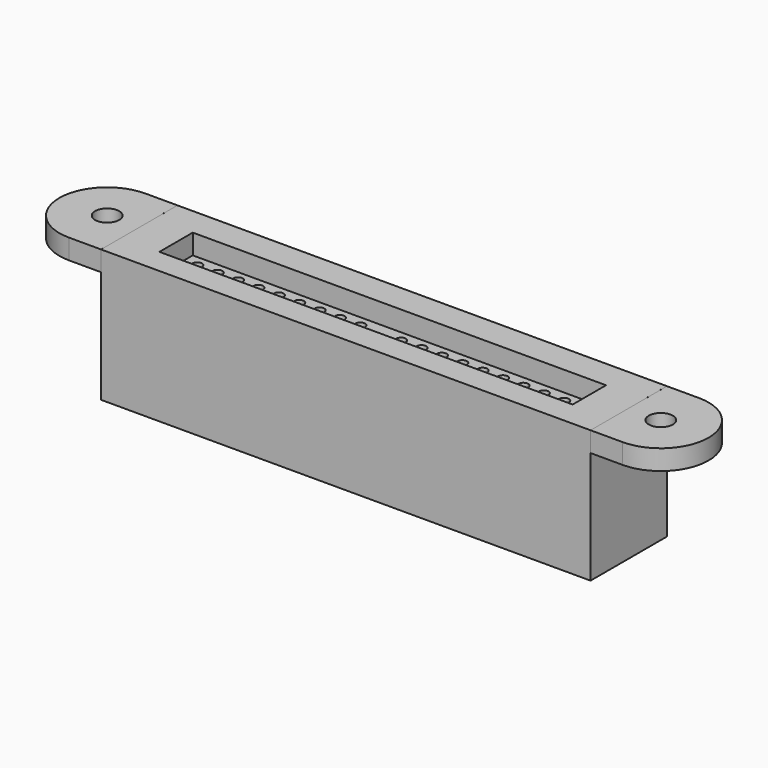
from build123d import *

# Parameters (mm, degrees)
BOX035_W                = 70
BOX035_H                = 15
BOX035_DEPTH            = 10
BOX034_W                = 0.5
BOX034_H                = 6.5
BOX034_DEPTH            = 3
BOX033_W                = 0.5
BOX033_H                = 6.5
BOX033_DEPTH            = 3
BOX032_W                = 3.8
BOX032_H                = 1.4
BOX032_DEPTH            = 2
BOX031_W                = 55
BOX031_H                = 6.5
BOX031_DEPTH            = 2
SKETCH009_R             = 1.5
PAD007_DEPTH            = 2.5
SKETCH011_R             = 1.5
PAD008_DEPTH            = 2.5
BODY008_PLACEMENT_ANGLE = 180
BOX030_W                = 1
BOX030_H                = 11.9
BOX030_DEPTH            = 18.5
BOX029_W                = 1
BOX029_H                = 11.9
BOX029_DEPTH            = 18.5
BOX028_W                = 59
BOX028_H                = 1
BOX028_DEPTH            = 18.5
CYLINDER002_R           = 1.2
CYLINDER002_DEPTH       = 50
CYLINDER003_R           = 1.2
CYLINDER003_DEPTH       = 50
CYLINDER004_R           = 1.2
CYLINDER004_DEPTH       = 50
CYLINDER005_R           = 1.2
CYLINDER005_DEPTH       = 50
CYLINDER006_R           = 1.2
CYLINDER006_DEPTH       = 50
CYLINDER007_R           = 1.2
CYLINDER007_DEPTH       = 50
CYLINDER008_R           = 1.2
CYLINDER008_DEPTH       = 50
CYLINDER009_R           = 1.2
CYLINDER009_DEPTH       = 50
CYLINDER010_R           = 1.2
CYLINDER010_DEPTH       = 50
CYLINDER001_R           = 1.2
CYLINDER001_DEPTH       = 50
CYLINDER_R              = 0.6
CYLINDER_DEPTH          = 50
ARRAY_X_COUNT           = 20
ARRAY_X_PITCH           = 2.54
ARRAY_Y_COUNT           = 2
ARRAY_Y_PITCH           = 2.54
SKETCH002_W             = 59
SKETCH002_H             = 10.9
PAD001_DEPTH            = 6
SKETCH003_W             = 59
SKETCH003_H             = 10.9
PAD002_DEPTH            = 9.5
SKETCH_W                = 51.5
SKETCH_H                = 5.2
POCKET_DEPTH            = 2.5
SKETCH001_W             = 59
SKETCH001_H             = 10.9
PAD_DEPTH               = 3


with BuildPart() as cube025:
    # Box035 → Box035 (new body)
    with BuildSketch(Plane(origin=(-35, -7, -11), x_dir=(1, 0, 0), z_dir=(0, 0, 1))):
        with Locations((35, 7.5)):
            Rectangle(BOX035_W, BOX035_H)
    extrude(amount=BOX035_DEPTH)


with BuildPart() as cube024:
    # Box034 → Box034 (new body)
    with BuildSketch(Plane(origin=(-28, -3.25, 0), x_dir=(1, 0, 0), z_dir=(0, 0, 1))):
        with Locations((0.25, 3.25)):
            Rectangle(BOX034_W, BOX034_H)
    extrude(amount=BOX034_DEPTH)


with BuildPart() as cube023:
    # Box033 → Box033 (new body)
    with BuildSketch(Plane(origin=(27.5, -3.25, 0), x_dir=(1, 0, 0), z_dir=(0, 0, 1))):
        with Locations((0.25, 3.25)):
            Rectangle(BOX033_W, BOX033_H)
    extrude(amount=BOX033_DEPTH)


with BuildPart() as cube022:
    # Box032 → Box032 (new body)
    with BuildSketch(Plane(origin=(-1.9, 3.25, 6), x_dir=(1, 0, 0), z_dir=(0, 0, 1))):
        with Locations((1.9, 0.7)):
            Rectangle(BOX032_W, BOX032_H)
    extrude(amount=BOX032_DEPTH)


with BuildPart() as cube021:
    # Box031 → Box031 (new body)
    with BuildSketch(Plane(origin=(-27.5, -3.25, 6), x_dir=(1, 0, 0), z_dir=(0, 0, 1))):
        with Locations((27.5, 3.25)):
            Rectangle(BOX031_W, BOX031_H)
    extrude(amount=BOX031_DEPTH)


with BuildPart() as obj1:
    # Sketch009 → Pad007 (new body)
    with BuildSketch(Plane.XY):
        with BuildLine():
            Line((-32.86076, 5.95), (-32.86076, -5.95))
            Line((-32.86076, -5.95), (-36.86076, -5.95))
            ThreePointArc((-36.86076, 5.95), (-42.81076, 0), (-36.86076, -5.95))
            Line((-32.86076, 5.95), (-36.86076, 5.95))
        make_face()
        with Locations((-36.86076, 0)):
            Circle(SKETCH009_R, mode=Mode.SUBTRACT)
    extrude(amount=PAD007_DEPTH)


with BuildPart() as obj1_1:
    # Body007 placement: moved
    add(obj1.part.moved(Location((2.36, 0.2, 13))))


with BuildPart() as obj2:
    # Sketch011 → Pad008 (new body)
    with BuildSketch(Plane.XY):
        with BuildLine():
            Line((-32.86076, 5.95), (-32.86076, -5.95))
            Line((-32.86076, -5.95), (-36.86076, -5.95))
            ThreePointArc((-36.86076, 5.95), (-42.81076, 0), (-36.86076, -5.95))
            Line((-32.86076, 5.95), (-36.86076, 5.95))
        make_face()
        with Locations((-36.86076, 0)):
            Circle(SKETCH011_R, mode=Mode.SUBTRACT)
    extrude(amount=PAD008_DEPTH)


with BuildPart() as obj2_1:
    # Body008 placement: moved
    add(obj2.part.moved(Location((-2.36, 0.2, 13))).rotate(Axis((-2.36, 0.2, 13), (0, 0, 1)), BODY008_PLACEMENT_ANGLE))


with BuildPart() as cube020:
    # Box030 → Box030 (new body)
    with BuildSketch(Plane(origin=(29.5, -5.75, -3), x_dir=(1, 0, 0), z_dir=(0, 0, 1))):
        with Locations((0.5, 5.95)):
            Rectangle(BOX030_W, BOX030_H)
    extrude(amount=BOX030_DEPTH)


with BuildPart() as cube019:
    # Box029 → Box029 (new body)
    with BuildSketch(Plane(origin=(-30.5, -5.75, -3), x_dir=(1, 0, 0), z_dir=(0, 0, 1))):
        with Locations((0.5, 5.95)):
            Rectangle(BOX029_W, BOX029_H)
    extrude(amount=BOX029_DEPTH)


with BuildPart() as cube018:
    # Box028 → Box028 (new body)
    with BuildSketch(Plane(origin=(-29.5, -5.75, -3), x_dir=(1, 0, 0), z_dir=(0, 0, 1))):
        with Locations((29.5, 0.5)):
            Rectangle(BOX028_W, BOX028_H)
    extrude(amount=BOX028_DEPTH)


with BuildPart() as cilindro_tapa001:
    # Cylinder002 → Cylinder002 (new body)
    with BuildSketch(Plane(origin=(-1.27, -1.27, 0), x_dir=(1, 0, 0), z_dir=(0, 0, 1))):
        Circle(CYLINDER002_R)
    extrude(amount=CYLINDER002_DEPTH)


with BuildPart() as cilindro_tapa002:
    # Cylinder003 → Cylinder003 (new body)
    with BuildSketch(Plane(origin=(-1.27, 1.27, 0), x_dir=(1, 0, 0), z_dir=(0, 0, 1))):
        Circle(CYLINDER003_R)
    extrude(amount=CYLINDER003_DEPTH)


with BuildPart() as cilindro_tapa003:
    # Cylinder004 → Cylinder004 (new body)
    with BuildSketch(Plane(origin=(1.27, -1.27, 0), x_dir=(1, 0, 0), z_dir=(0, 0, 1))):
        Circle(CYLINDER004_R)
    extrude(amount=CYLINDER004_DEPTH)


with BuildPart() as cilindro_tapa004:
    # Cylinder005 → Cylinder005 (new body)
    with BuildSketch(Plane(origin=(3.81, -1.27, 0), x_dir=(1, 0, 0), z_dir=(0, 0, 1))):
        Circle(CYLINDER005_R)
    extrude(amount=CYLINDER005_DEPTH)


with BuildPart() as cilindro_tapa005:
    # Cylinder006 → Cylinder006 (new body)
    with BuildSketch(Plane(origin=(6.35, -1.27, 0), x_dir=(1, 0, 0), z_dir=(0, 0, 1))):
        Circle(CYLINDER006_R)
    extrude(amount=CYLINDER006_DEPTH)


with BuildPart() as cilindro_tapa006:
    # Cylinder007 → Cylinder007 (new body)
    with BuildSketch(Plane(origin=(11.43, -1.27, 0), x_dir=(1, 0, 0), z_dir=(0, 0, 1))):
        Circle(CYLINDER007_R)
    extrude(amount=CYLINDER007_DEPTH)


with BuildPart() as cilindro_tapa007:
    # Cylinder008 → Cylinder008 (new body)
    with BuildSketch(Plane(origin=(13.97, -1.27, 0), x_dir=(1, 0, 0), z_dir=(0, 0, 1))):
        Circle(CYLINDER008_R)
    extrude(amount=CYLINDER008_DEPTH)


with BuildPart() as cilindro_tapa008:
    # Cylinder009 → Cylinder009 (new body)
    with BuildSketch(Plane(origin=(16.51, -1.27, 0), x_dir=(1, 0, 0), z_dir=(0, 0, 1))):
        Circle(CYLINDER009_R)
    extrude(amount=CYLINDER009_DEPTH)


with BuildPart() as cilindro_tapa009:
    # Cylinder010 → Cylinder010 (new body)
    with BuildSketch(Plane(origin=(24.13, -1.27, 0), x_dir=(1, 0, 0), z_dir=(0, 0, 1))):
        Circle(CYLINDER010_R)
    extrude(amount=CYLINDER010_DEPTH)


with BuildPart() as cilindro_tapa:
    # Cylinder001 → Cylinder001 (new body)
    with BuildSketch(Plane(origin=(-24.13, -1.27, 0), x_dir=(1, 0, 0), z_dir=(0, 0, 1))):
        Circle(CYLINDER001_R)
    extrude(amount=CYLINDER001_DEPTH)


with BuildPart() as obj3:
    # Cylinder → Cylinder (new body)
    with BuildSketch(Plane.XY):
        Circle(CYLINDER_R)
    extrude(amount=CYLINDER_DEPTH)

    # Array X: obj3 ×20


with BuildPart() as obj3_1:
    add(obj3.part)
    with Locations(*[(i * ARRAY_X_PITCH, 0, 0) for i in range(1, ARRAY_X_COUNT)]):
        add(obj3.part)

    # Array Y: obj3_2


with BuildPart() as obj3_2:
    add(obj3_1.part)
    with Locations(*[(0, i * ARRAY_Y_PITCH, 0) for i in range(1, ARRAY_Y_COUNT)]):
        add(obj3_1.part)


with BuildPart() as obj3_3:
    # Array placement: moved
    add(obj3_2.part.moved(Location((-24.13, -1.27, 0))))

    # Cut010: cut cilindro_tapa
    add(cilindro_tapa.part, mode=Mode.SUBTRACT)

    # Cut011: cut cilindro_tapa009
    add(cilindro_tapa009.part, mode=Mode.SUBTRACT)

    # Cut012: cut cilindro_tapa008
    add(cilindro_tapa008.part, mode=Mode.SUBTRACT)

    # Cut013: cut cilindro_tapa007
    add(cilindro_tapa007.part, mode=Mode.SUBTRACT)

    # Cut014: cut cilindro_tapa006
    add(cilindro_tapa006.part, mode=Mode.SUBTRACT)

    # Cut015: cut cilindro_tapa005
    add(cilindro_tapa005.part, mode=Mode.SUBTRACT)

    # Cut016: cut cilindro_tapa004
    add(cilindro_tapa004.part, mode=Mode.SUBTRACT)

    # Cut017: cut cilindro_tapa003
    add(cilindro_tapa003.part, mode=Mode.SUBTRACT)

    # Cut018: cut cilindro_tapa002
    add(cilindro_tapa002.part, mode=Mode.SUBTRACT)

    # Cut019: cut cilindro_tapa001
    add(cilindro_tapa001.part, mode=Mode.SUBTRACT)


with BuildPart() as body001:
    # Sketch002 → Pad001 (new body)
    with BuildSketch(Plane.XY):
        with Locations((0, 0.7)):
            Rectangle(SKETCH002_W, SKETCH002_H)
        Polygon((-27.5, -3.25), (-27.5, 3.25), (-1.9, 3.25), (-1.9, 4.65), (1.9, 4.65), (1.9, 3.25), (27.5, 3.25), (27.5, -3.25), align=None, mode=Mode.SUBTRACT)
    extrude(amount=PAD001_DEPTH)


with BuildPart() as body002:
    # Sketch003 → Pad002 (new body)
    with BuildSketch(Plane.XY):
        with Locations((0, 0.7)):
            Rectangle(SKETCH003_W, SKETCH003_H)
    extrude(amount=PAD002_DEPTH)

    # Sketch (on Face6 of Pad002) → Pocket (cut)
    with BuildSketch(Plane.XY.offset(9.5)):
        Rectangle(SKETCH_W, SKETCH_H)
    extrude(amount=-POCKET_DEPTH, mode=Mode.SUBTRACT)


with BuildPart() as body002_1:
    # Body002 placement: moved
    add(body002.part.moved(Location((0, 0, 6))))


with BuildPart() as pieza_ide_1_2_final:
    # Sketch001 → Pad (new body)
    with BuildSketch(Plane.XY):
        with Locations((0, 0.7)):
            Rectangle(SKETCH001_W, SKETCH001_H)
        Polygon((-28, -3.25), (-28, 3.25), (-1.9, 3.25), (-1.9, 4.65), (1.9, 4.65), (1.9, 3.25), (28, 3.25), (28, -3.25), align=None, mode=Mode.SUBTRACT)
    extrude(amount=PAD_DEPTH)


with BuildPart() as pieza_ide_1_2_final_1:
    # Body placement: moved
    add(pieza_ide_1_2_final.part.moved(Location((0, 0, -3))))

    # Fusion: union Body001, Body002
    add(body001.part)
    add(body002_1.part)

    # Cut020: cut obj3
    add(obj3_3.part, mode=Mode.SUBTRACT)

    # Fusion001004: union Cube018
    add(cube018.part)

    # Fusion001005: union Cube019
    add(cube019.part)

    # Fusion001006: union Cube020
    add(cube020.part)

    # Fusion001007: union obj1, obj2
    add(obj1_1.part)
    add(obj2_1.part)

    # Cut027: cut Cube021
    add(cube021.part, mode=Mode.SUBTRACT)

    # Cut028: cut Cube022
    add(cube022.part, mode=Mode.SUBTRACT)

    # Cut029: cut Cube023
    add(cube023.part, mode=Mode.SUBTRACT)

    # Cut030: cut Cube024
    add(cube024.part, mode=Mode.SUBTRACT)

    # Cut031: cut Cube025
    add(cube025.part, mode=Mode.SUBTRACT)


solid = pieza_ide_1_2_final_1.part
